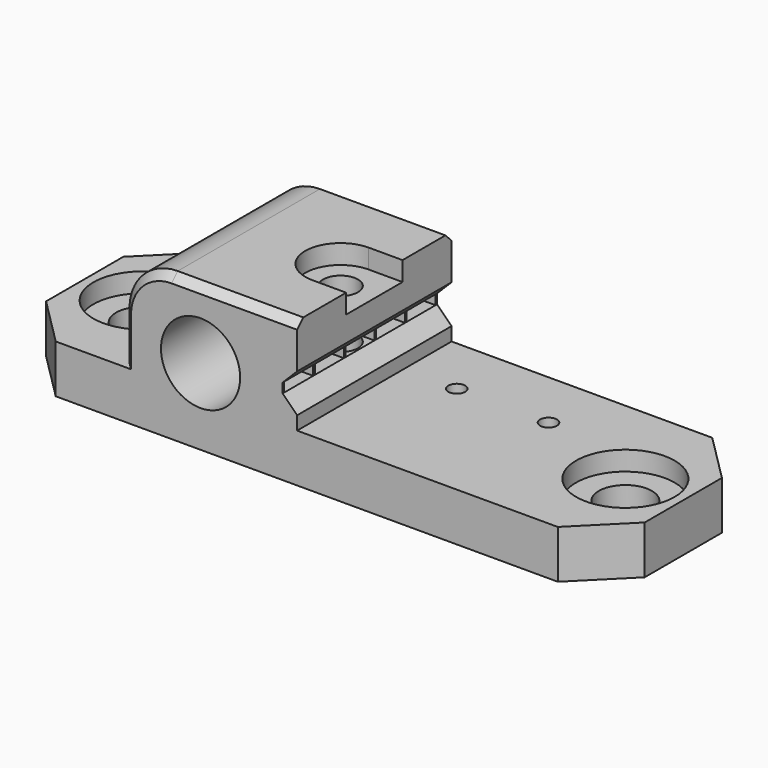
from build123d import *

# Parameters (mm, degrees)
PAD_DEPTH           = 10
SKETCH001_R         = 2.75
SKETCH001_R_2       = 1.8
SKETCH001_R_3       = 0.875
POCKET_DEPTH        = 15.001
POCKET001_DEPTH     = 3
SKETCH003_R         = 5.1
POCKET002_DEPTH     = 2
SKETCH004_R         = 1.9
PAD001_DEPTH        = 0.2
SKETCH005_R         = 2.95
PAD002_DEPTH        = 0.2
PAD003_DEPTH        = 0.2
LINEARPATTERN_COUNT = 6
LINEARPATTERN_PITCH = 3.96
POCKET003_DEPTH     = 2
CHAMFER_SIZE        = 5
CHAMFER001_SIZE     = 0.8


with BuildPart() as part:
    # Sketch → Pad (new body, symmetric)
    with BuildSketch(Plane.XZ):
        with BuildLine():
            ThreePointArc((3.976179, 8.9), (-4.068927, 7.396182), (4.1, 7.9))
            Line((4.1, 7.9), (8.5, 7.9))
            Line((8.5, 7.9), (10, 6.4))
            Line((10, 6.4), (10, 5))
            Line((10, 5), (42, 5))
            Line((42, 5), (42, 0))
            Line((-20, 0), (42, 0))
            Line((-20, 0), (-20, 5))
            Line((-20, 5), (-8, 5))
            Line((-8, 5), (-8, 10))
            ThreePointArc((-3, 15), (-6.535534, 13.535534), (-8, 10))
            Line((-3, 15), (10, 15))
            Line((10, 15), (10, 10.4))
            Line((8.5, 8.9), (10, 10.4))
            Line((8.5, 8.9), (3.976179, 8.9))
        make_face()
    extrude(amount=PAD_DEPTH, both=True)

    # Sketch001 → Pocket (cut, through all)
    with BuildSketch(Plane(origin=(0, 0, 0), x_dir=(1, 0, 0), z_dir=(0, 0, -1))):
        with Locations((-14, 0)):
            Circle(SKETCH001_R)
        with Locations((36, 0)):
            Circle(SKETCH001_R)
        with Locations((6.5, 0)):
            Circle(SKETCH001_R_2)
        with Locations((15.5, -3.8)):
            Circle(SKETCH001_R_3)
        with Locations((25, -3.8)):
            Circle(SKETCH001_R_3)
    extrude(amount=-POCKET_DEPTH, mode=Mode.SUBTRACT)

    # Sketch002 → Pocket001 (cut)
    with BuildSketch(Plane(origin=(0, 0, 0), x_dir=(1, 0, 0), z_dir=(0, 0, -1))):
        Polygon((6.5, 3.406367), (3.55, 1.703183), (3.55, -1.703183), (6.5, -3.406367), (9.45, -1.703183), (9.45, 1.703183), align=None)
    extrude(amount=-POCKET001_DEPTH, mode=Mode.SUBTRACT)

    # Sketch003 → Pocket002 (cut)
    with BuildSketch(Plane.XY.offset(5)):
        with Locations((36, 0)):
            Circle(SKETCH003_R)
        with Locations((-14, 0)):
            Circle(SKETCH003_R)
    extrude(amount=-POCKET002_DEPTH, mode=Mode.SUBTRACT)

    # Sketch004 → Pad001 (join)
    with BuildSketch(Plane.XY.offset(8.9)):
        with Locations((6.5, 0)):
            Circle(SKETCH004_R)
    extrude(amount=PAD001_DEPTH)

    # Sketch005 → Pad002 (join)
    with BuildSketch(Plane.XY.offset(3)):
        with Locations((6.5, 0)):
            Circle(SKETCH005_R)
    extrude(amount=PAD002_DEPTH)

    # Sketch006 → Pad003 (join)
    with BuildSketch(Plane.XZ.offset(-10)):
        with BuildLine():
            ThreePointArc((4.1, 7.9), (4.068927, 8.403818), (3.976179, 8.9))
            Line((8.5, 8.9), (3.976179, 8.9))
            Line((8.5, 7.9), (8.5, 8.9))
            Line((4.1, 7.9), (8.5, 7.9))
        make_face()
    pad003 = extrude(amount=PAD003_DEPTH)

    # LinearPattern: Pad003 ×6
    with Locations(*[(0, -i * LINEARPATTERN_PITCH, 0) for i in range(1, LINEARPATTERN_COUNT)]):
        add(pad003)

    # Sketch007 → Pocket003 (cut)
    with BuildSketch(Plane.XY.offset(15)):
        with BuildLine():
            ThreePointArc((6.5, 3.65), (2.85, 0), (6.5, -3.65))
            Line((10.5, -3.65), (6.5, -3.65))
            Line((10.5, 3.65), (10.5, -3.65))
            Line((6.5, 3.65), (10.5, 3.65))
        make_face()
    extrude(amount=-POCKET003_DEPTH, mode=Mode.SUBTRACT)

    # Chamfer
    chamfer_edges = [part.edges().sort_by_distance(p)[0] for p in [
        (-20, -10, 2.5),
        (42, -10, 2.5),
        (42, 10, 2.5),
        (-20, 10, 2.5),
    ]]
    chamfer(chamfer_edges, length=CHAMFER_SIZE)

    # Chamfer001
    chamfer001_edges = [part.edges().sort_by_distance(p)[0] for p in [
        (-8, -10, 7.5),
        (-6.535534, -10, 13.535534),
        (3.5, -10, 15),
        (3.5, 10, 15),
        (-6.535534, 10, 13.535534),
        (-8, 10, 7.5),
    ]]
    chamfer(chamfer001_edges, length=CHAMFER001_SIZE)


solid = part.part
